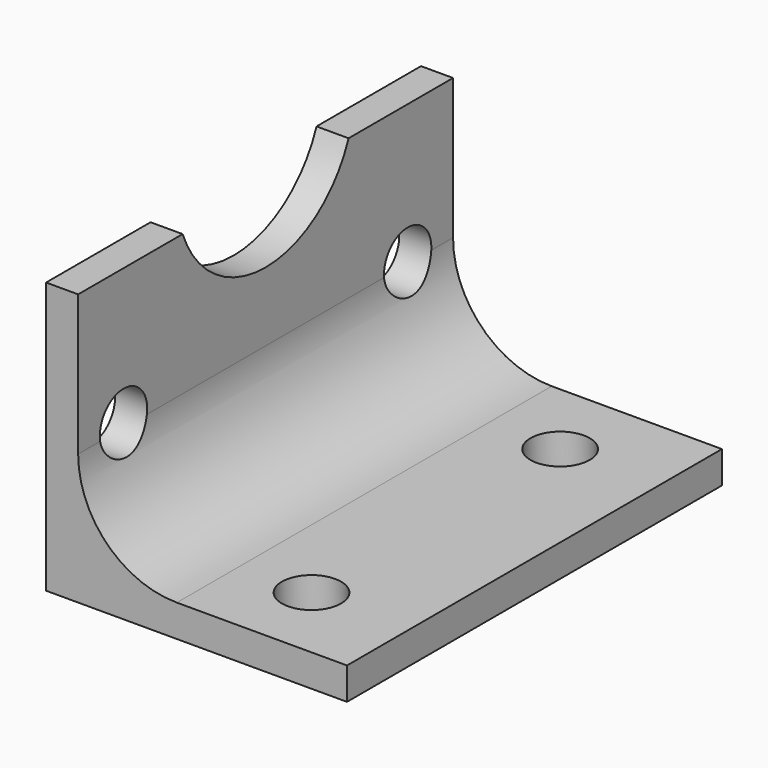
from build123d import *

# Parameters (mm, degrees)
F1_DEPTH = 47.5
F2_R     = 6
F3_DEPTH = 55.001
F4_R     = 6
F5_DEPTH = 61.001


with BuildPart() as f1:
    # F0 (on Front) → F1 (new body, symmetric)
    with BuildSketch(Plane.XZ):
        with BuildLine():
            Line((0, 55), (0, 0))
            Line((0, 0), (61, 0))
            Line((61, 0), (61, 6.5))
            Line((61, 6.5), (26.5, 6.5))
            ThreePointArc((26.5, 6.5), (12.357864, 12.357864), (6.5, 26.5))
            Line((6.5, 26.5), (6.5, 55))
            Line((6.5, 55), (0, 55))
        make_face()
    extrude(amount=F1_DEPTH, both=True)

    # F2 (on face) → F3 (cut, through all)
    with BuildSketch(Plane(origin=(0, 0, 0), x_dir=(1, 0, 0), z_dir=(0, 0, -1))):
        with Locations((41, 31.5)):
            Circle(F2_R)
        with Locations((41, -31.5)):
            Circle(F2_R)
    extrude(amount=-F3_DEPTH, mode=Mode.SUBTRACT)

    # F4 (on face) → F5 (cut, through all)
    with BuildSketch(Plane(origin=(0, 0, 0), x_dir=(0, -1, 0), z_dir=(-1, 0, 0))):
        with Locations((-36, 27)):
            Circle(F4_R)
        with Locations((36, 27.5)):
            Circle(F4_R)
        with BuildLine():
            Line((21.029741, 55), (-21.029741, 55))
            ThreePointArc((-21.029741, 55), (0, 40.5), (21.029741, 55))
        make_face()
    extrude(amount=-F5_DEPTH, mode=Mode.SUBTRACT)


solid = f1.part
